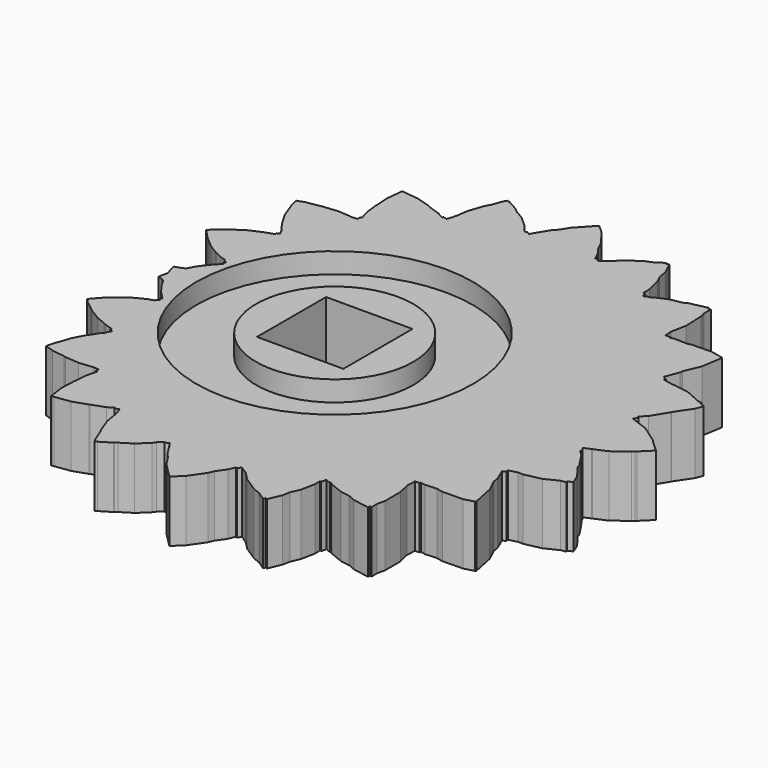
from build123d import *

# Parameters (mm, degrees)
SKETCH007_W  = 2.93428
SKETCH007_H  = 1
SKETCH008_W  = 2.93428
SKETCH008_H  = 1
SKETCH_W     = 4.24264
SKETCH_H     = 4.24264
PAD002_DEPTH = 10
PAD001_DEPTH = 3


with BuildPart() as revolution002:
    # Sketch007 → Revolution002 (revolve)
    with BuildSketch(Plane(origin=(0, 0, 3.5), x_dir=(1, 0, 0), z_dir=(0, -1, 0))):
        with Locations((5.324198, -1)):
            Rectangle(SKETCH007_W, SKETCH007_H)
    revolve(axis=Axis((0, 0, 3.5), (0, 0, 1)))


with BuildPart() as fusion002:
    # Sketch008 → Revolution003 (revolve)
    with BuildSketch(Plane(origin=(0, 0, -0.5), x_dir=(1, 0, 0), z_dir=(0, -1, 0))):
        with Locations((5.324198, 1)):
            Rectangle(SKETCH008_W, SKETCH008_H)
    revolve(axis=Axis((0, 0, -0.5), (0, 0, 1)))

    # Fusion002: union Revolution002
    add(revolution002.part)


with BuildPart() as pad002:
    # Sketch → Pad002 (new body)
    with BuildSketch(Plane.XY):
        Rectangle(SKETCH_W, SKETCH_H)
    extrude(amount=PAD002_DEPTH)


with BuildPart() as input_gear:
    # DWire001 → Pad001 (new body)
    with BuildSketch(Plane.XY):
        Polygon((12.940729, -7.575096), (12.977557, -7.523913), (12.940729, -7.575096), (12.977557, -7.523913), (12.758574, -6.441059), (12.472225, -5.829769), (12.430485, -5.555857), (12.181117, -4.954914), (12.326812, -4.875535), (12.309377, -4.76112), (12.719063, -4.653555), (12.975736, -4.661282), (13.788068, -4.486426), (14.424428, -4.172962), (14.675999, -4.133869), (14.650758, -4.061474), (14.883204, -3.946974), (14.699382, -3.503987), (14.241549, -2.88781), (14.181787, -2.716409), (13.702015, -1.991631), (13.465961, -1.779003), (13.529085, -1.730391), (13.385386, -1.513307), (13.713488, -1.373265), (13.711346, -1.367121), (13.737346, -1.363081), (14.34015, -1.105789), (15.037328, -0.568892), (15.148866, -0.504908), (15.198417, -0.44098), (15.719279, 0.070179), (15.210449, 0.528512), (15.10034, 0.658673), (15.088926, 0.664587), (14.25531, 1.251546), (13.376205, 1.583702), (13.497607, 1.785053), (13.412823, 1.844751), (13.708631, 2.135049), (14.177201, 2.9122), (14.180326, 2.914966), (14.188725, 2.942717), (14.719572, 3.722897), (14.846831, 4.068971), (14.834107, 4.098537), (14.573445, 4.213737), (14.588173, 4.262392), (14.420438, 4.281359), (13.650459, 4.621652), (12.884372, 4.75399), (12.783349, 4.746861), (12.287499, 4.855868), (12.297676, 4.947289), (12.129541, 5.030154), (12.383904, 5.721877), (12.397791, 5.846618), (12.724988, 6.625463), (12.889497, 7.646299), (12.865471, 7.679689), (12.27308, 7.809921), (11.320258, 7.789391), (11.157506, 7.746807), (10.456875, 7.75666), (10.288881, 7.719668), (10.27642, 7.759198), (10.028878, 7.762679), (10.000143, 8.147202), (10.14491, 8.878696), (10.11032, 9.854959), (10.043503, 10.103481), (10.039339, 10.528952), (9.934564, 10.50868), (9.913224, 10.588053), (9.065251, 10.401333), (8.849646, 10.298784), (8.263947, 10.185471), (7.669773, 9.923853), (7.583522, 9.860324), (7.573268, 9.881361), (7.299944, 9.761016), (7.245852, 9.988503), (7.162589, 9.972394), (7.15885, 10.354402), (6.983731, 11.090885), (6.835555, 11.394891), (6.724023, 11.898163), (6.464034, 12.458241), (6.342309, 12.40686), (6.309577, 12.474014), (6.241455, 12.444019), (6.22838, 12.441649), (5.964833, 12.24753), (5.503542, 12.052821), (4.824323, 11.57209), (4.554923, 11.278192), (4.11821, 10.972168), (4.011261, 11.113573), (3.927208, 11.078206), (3.751142, 11.457493), (3.506659, 11.78074), (3.329396, 12.16735), (2.778661, 12.908163), (2.429705, 13.217772), (2.424534, 13.224634), (2.423382, 13.223382), (2.372766, 13.268291), (2.303318, 13.219625), (1.614812, 12.480863), (1.373322, 12.081987), (1.144998, 11.833803), (0.834528, 11.317637), (0.83027, 11.305709), (0.827844, 11.306525), (0.682856, 11.065478), (0.523027, 11.157733), (0.471771, 11.102018), (0.301364, 11.253211), (0.10223, 11.517492), (-0.41428, 11.973104), (-0.862912, 12.23247), (-1.054817, 12.395618), (-1.591619, 12.695531), (-1.609693, 12.664202), (-1.690625, 12.710991), (-1.783231, 12.557032), (-1.964529, 12.049133), (-2.095168, 11.822685), (-2.349526, 11.075653), (-2.42777, 10.506696), (-2.47547, 10.350993), (-2.482358, 10.288248), (-2.494217, 10.289799), (-2.564041, 10.061882), (-2.741097, 10.12016), (-2.77545, 10.055569), (-3.106099, 10.240302), (-3.629739, 10.412661), (-3.773198, 10.487091), (-4.509009, 10.707191), (-5.132958, 10.773757), (-5.272504, 10.80879), (-5.273799, 10.788783), (-5.326171, 10.794371), (-5.416445, 9.972), (-5.368208, 9.330359), (-5.37497, 9.2259), (-5.302564, 8.605354), (-5.157011, 8.123559), (-5.243743, 8.101251), (-5.224757, 7.938533), (-5.404306, 7.925128), (-5.458943, 7.928694), (-5.460137, 7.910248), (-5.63917, 7.929348), (-5.698949, 7.944355), (-6.221966, 7.978485), (-6.853168, 7.907451), (-6.896879, 7.907675), (-6.916391, 7.901944), (-7.654112, 7.776425), (-8.023541, 7.646319), (-7.926409, 7.3248), (-7.905521, 7.207473), (-7.872815, 7.142614), (-7.636423, 6.49471), (-7.329353, 5.958323), (-7.325878, 5.954082), (-7.01734, 5.49711), (-6.864614, 5.335395), (-6.893019, 5.31298), (-6.779176, 5.144368), (-6.91544, 5.069016), (-6.880896, 4.993167), (-7.353749, 4.826638), (-7.360866, 4.822702), (-7.917522, 4.579071), (-8.476114, 4.216683), (-8.569382, 4.132394), (-9.021235, 3.774518), (-9.186007, 3.595912), (-8.729505, 3.112539), (-8.720801, 3.102033), (-8.619614, 3.024371), (-8.22879, 2.681856), (-7.762397, 2.386964), (-7.673292, 2.348068), (-7.346317, 2.19214), (-7.070984, 2.108078), (-7.063291, 2.090179), (-7.076096, 2.063277), (-6.921343, 1.989478), (-6.916386, 1.970638), (-6.986492, 1.866588), (-6.92113, 1.822139), (-6.919086, 1.802765), (-7.328514, 1.358967), (-7.38168, 1.28006), (-7.626428, 0.941761), (-7.784195, 0.636965), (-7.807656, 0.635687), (-7.821288, 0.599104), (-7.953277, 0.575715), (-7.959755, 0.545471), (-8.258131, 0.446238), (-8.175554, 0.102494), (-8.09095, -0.124547), (-8.122197, -0.208401), (-8.121506, -0.209661), (-8.196885, -0.56157), (-8.001714, -0.621158), (-7.993105, -0.656992), (-7.885429, -0.676073), (-7.867331, -0.724639), (-7.838095, -0.725508), (-7.652313, -1.063657), (-7.458526, -1.317701), (-7.347913, -1.473213), (-6.944868, -1.887964), (-6.946264, -1.905568), (-7.008549, -1.950332), (-6.932371, -2.057432), (-6.936431, -2.074618), (-7.087852, -2.151598), (-7.072234, -2.182422), (-7.078804, -2.198814), (-7.37354, -2.296836), (-7.614736, -2.419455), (-7.792626, -2.502537), (-8.25984, -2.815205), (-8.571345, -3.10318), (-8.748128, -3.246476), (-9.177203, -3.726253), (-8.980474, -3.928696), (-8.603123, -4.211596), (-8.430524, -4.359447), (-7.868705, -4.702625), (-7.40997, -4.888411), (-7.307723, -4.941302), (-6.866937, -5.082627), (-6.896942, -5.153793), (-6.752475, -5.228524), (-6.858529, -5.395404), (-6.825506, -5.420038), (-6.993716, -5.608125), (-7.235973, -5.989324), (-7.307038, -6.081136), (-7.606822, -6.641033), (-7.791997, -7.19814), (-7.853719, -7.329896), (-7.86187, -7.38508), (-7.962584, -7.757911), (-7.534452, -7.895178), (-6.912075, -7.982618), (-6.811259, -8.009089), (-6.119592, -8.066292), (-5.431194, -8.000479), (-5.427194, -8.000656), (-5.41896, -7.999521), (-5.418816, -8.001028), (-5.174057, -8.011894), (-5.187332, -8.165865), (-5.09317, -8.187139), (-5.234168, -8.7091), (-5.289654, -9.352653), (-5.291789, -9.36195), (-5.325115, -10.114005), (-5.2165, -10.880935), (-5.144203, -10.870965), (-5.143336, -10.880025), (-5.080509, -10.862182), (-4.348263, -10.761206), (-3.63921, -10.524652), (-3.609628, -10.508084), (-2.983141, -10.279443), (-2.70156, -10.109869), (-2.669838, -10.165101), (-2.482227, -10.096631), (-2.40842, -10.312652), (-2.386665, -10.30911), (-2.370406, -10.423914), (-2.357098, -10.462864), (-2.237734, -11.164042), (-1.94968, -11.927625), (-1.877402, -12.043834), (-1.627226, -12.677514), (-1.562467, -12.777385), (-1.46063, -12.713916), (-1.454762, -12.723349), (-0.931019, -12.407939), (-0.903542, -12.397545), (-0.79564, -12.299467), (-0.253523, -11.961597), (0.227173, -11.507829), (0.336988, -11.351167), (0.559984, -11.139189), (0.603097, -11.182936), (0.770809, -11.078431), (0.915741, -11.301944), (0.926629, -11.29787), (0.94769, -11.351215), (1.291552, -11.881516), (1.438602, -12.030727), (1.773269, -12.542926), (2.500742, -13.270752), (2.960743, -12.833477), (3.468022, -12.098821), (3.575637, -11.840222), (3.883161, -11.402081), (4.020063, -11.076866), (4.092233, -11.104206), (4.204416, -10.944374), (4.58404, -11.190749), (4.967913, -11.580742), (5.695369, -12.057103), (6.040651, -12.188115), (6.424872, -12.449899), (6.455792, -12.462155), (6.499959, -12.362391), (6.591326, -12.397058), (6.856939, -11.766091), (6.922679, -11.40753), (7.114382, -10.974502), (7.254653, -10.26834), (7.245979, -9.960564), (7.313711, -9.971019), (7.363248, -9.721635), (7.62338, -9.824753), (7.638924, -9.789642), (7.783776, -9.888335), (8.425139, -10.142575), (8.883497, -10.213326), (9.243968, -10.368289), (10.030622, -10.509956), (10.057016, -10.394467), (10.141779, -10.407551), (10.132147, -10.065733), (10.220875, -9.677501), (10.21793, -8.740016), (10.082664, -8.173907), (10.099274, -7.705367), (10.324137, -7.693388), (10.339507, -7.637161), (10.576946, -7.679921), (11.143291, -7.649751), (11.458817, -7.719234), (12.461305, -7.700971), align=None)
    extrude(amount=PAD001_DEPTH)

    # Cut: cut Pad002
    add(pad002.part, mode=Mode.SUBTRACT)

    # Cut004: cut Fusion002
    add(fusion002.part, mode=Mode.SUBTRACT)


solid = input_gear.part
